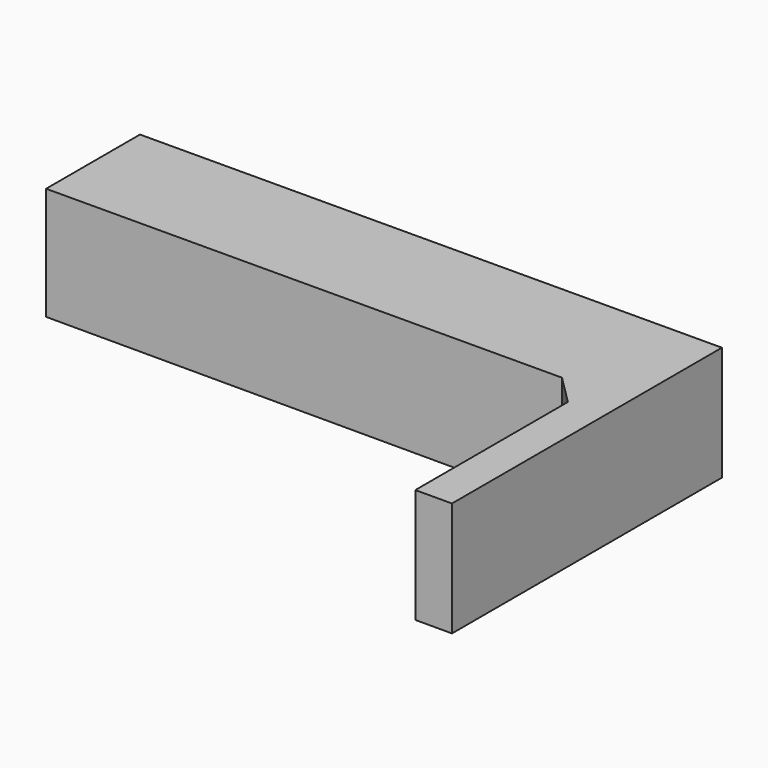
from build123d import *

# Parameters (mm, degrees)
F0_W     = 3505.2
F0_H     = 1188.72
F2_W     = 3505.2
F2_H     = 1155.192
F5_DEPTH = 1187.6712120329
F7_W     = 3505.2
F7_H     = 1828.8
F8_DEPTH = 6070.6011017


with BuildPart() as f3:
    # F0 (on Right) → F3 section 0
    with BuildSketch(Plane.YZ):
        with Locations((-1752.6, 890.016)):
            Rectangle(F0_W, F0_H)
    # F2 (on offset) → F3 section 1
    with BuildSketch(Plane.YZ.offset(-12115.8)):
        with Locations((-1752.6, 873.252)):
            Rectangle(F2_W, F2_H)
    loft()

    # F4 (on face) → F5 (cut, through all)
    with BuildSketch(Plane(origin=(-4.1076757135, 0, 1484.3646328471), x_dir=(0.9999961711, 0, 0.002767285), z_dir=(-0.002767285, 0, 0.9999961711))):
        Polygon((-11730.7386994129, -1524), (-11730.7386994129, -3505.2), (-376.8923085584, -3505.2), (-376.8923085584, -1524), (-681.6923085584, -1219.2), (-11425.9386994129, -1219.2), align=None)
    extrude(amount=-F5_DEPTH, mode=Mode.SUBTRACT)

    # F7 (on offset) → F8 (cut, through all)
    with BuildSketch(Plane.YZ.offset(-6045.1998984)):
        with Locations((-1752.6, 914.4)):
            Rectangle(F7_W, F7_H)
    extrude(amount=-F8_DEPTH, mode=Mode.SUBTRACT)


solid = f3.part
